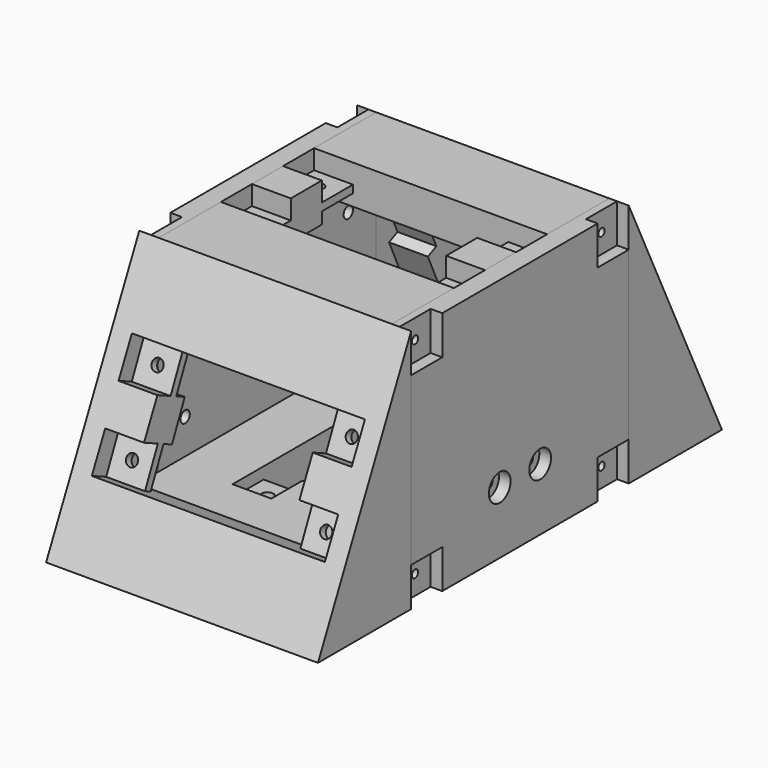
from build123d import *

# Parameters (mm, degrees)
CYLINDER002_R           = 1
CYLINDER002_DEPTH       = 5
CYLINDER002_PITCH_ANGLE = 90
ARRAY003_X_COUNT        = 2
ARRAY003_X_PITCH        = 53
ARRAY003_Y_COUNT        = 2
ARRAY003_Y_PITCH        = 60
CYLINDER003_R           = 1
CYLINDER003_DEPTH       = 5
CYLINDER003_PITCH_ANGLE = 90
ARRAY004_X_COUNT        = 2
ARRAY004_X_PITCH        = 53
ARRAY004_Y_COUNT        = 2
ARRAY004_Y_PITCH        = 60
CYLINDER001_R           = 1.5
CYLINDER001_DEPTH       = 4
ARRAY002_X_COUNT        = 2
ARRAY002_X_PITCH        = 20
ARRAY002_Y_COUNT        = 2
ARRAY002_Y_PITCH        = 50
CYLINDER_R              = 1.5
CYLINDER_DEPTH          = 4
ARRAY001_X_COUNT        = 2
ARRAY001_X_PITCH        = 50
ARRAY001_Y_COUNT        = 2
ARRAY001_Y_PITCH        = 20
BOX001_W                = 5
BOX001_H                = 70
BOX001_DEPTH            = 63
ARRAY_X_COUNT           = 2
ARRAY_X_PITCH           = 65
BOX_W                   = 60
BOX_H                   = 70
BOX_DEPTH               = 43
PAD001_DEPTH            = 10
PAD002_DEPTH            = 10
PAD003_DEPTH            = 60
PAD004_DEPTH            = 15
PAD005_DEPTH            = 15
SKETCH006_W             = 10
SKETCH006_H             = 2
POCKET_DEPTH            = 10
SKETCH007_W             = 10
SKETCH007_H             = 2
POCKET001_DEPTH         = 10
SKETCH008_W             = 10
SKETCH008_H             = 2
POCKET002_DEPTH         = 10
SKETCH009_W             = 10
SKETCH009_H             = 2
POCKET003_DEPTH         = 10
PAD_DEPTH               = 70
SKETCH010_R             = 1.5
POCKET004_DEPTH         = 3
SKETCH011_R             = 1.5
POCKET005_DEPTH         = 3
CYLINDER007_R           = 1.5
CYLINDER007_DEPTH       = 3
CYLINDER007_PITCH_ANGLE = 90
ARRAY010_X_COUNT        = 2
ARRAY010_X_PITCH        = 25
ARRAY010_Y_COUNT        = 2
ARRAY010_Y_PITCH        = 52.5
CYLINDER006_R           = 3.5
CYLINDER006_DEPTH       = 4
CYLINDER006_PITCH_ANGLE = 90
ARRAY009_X_COUNT        = 2
ARRAY009_X_PITCH        = 25
ARRAY009_Y_COUNT        = 2
ARRAY009_Y_PITCH        = 52.5
CYLINDER004_R           = 1
CYLINDER004_DEPTH       = 10
CYLINDER004_PITCH_ANGLE = 90
ARRAY006_X_COUNT        = 2
ARRAY006_X_PITCH        = 53
ARRAY006_Y_COUNT        = 2
ARRAY006_Y_PITCH        = 60
BOX003_W                = 3
BOX003_H                = 10
BOX003_DEPTH            = 10
ARRAY005_X_COUNT        = 2
ARRAY005_X_PITCH        = 53
ARRAY005_Y_COUNT        = 2
ARRAY005_Y_PITCH        = 60
BOX002_W                = 5
BOX002_H                = 70
BOX002_DEPTH            = 63
CYLINDER008_R           = 1.5
CYLINDER008_DEPTH       = 3
CYLINDER008_PITCH_ANGLE = 90
ARRAY013_Y_COUNT        = 2
ARRAY013_Y_PITCH        = 13
BOX011_W                = 3
BOX011_H                = 23
BOX011_DEPTH            = 10
BOX010_W                = 5
BOX010_H                = 23
BOX010_DEPTH            = 12
BOX008_W                = 5
BOX008_H                = 23
BOX008_DEPTH            = 2
BOX007_W                = 5
BOX007_H                = 5
BOX007_DEPTH            = 5
ARRAY012_Y_COUNT        = 2
ARRAY012_Y_PITCH        = 25.5
CHAMFER_SIZE            = 2.5
CHAMFER_PITCH_ANGLE     = -90
CYLINDER009_R           = 1.5
CYLINDER009_DEPTH       = 2
CYLINDER009_PITCH_ANGLE = 90
ARRAY014_Y_COUNT        = 2
ARRAY014_Y_PITCH        = 13
CYLINDER010_R           = 3.5
CYLINDER010_DEPTH       = 3
CYLINDER010_PITCH_ANGLE = 90
ARRAY015_Y_COUNT        = 2
ARRAY015_Y_PITCH        = 13
BOX009_W                = 5
BOX009_H                = 23
BOX009_DEPTH            = 5
CYLINDER005_R           = 1
CYLINDER005_DEPTH       = 10
CYLINDER005_PITCH_ANGLE = 90
ARRAY008_X_COUNT        = 2
ARRAY008_X_PITCH        = 53
ARRAY008_Y_COUNT        = 2
ARRAY008_Y_PITCH        = 60
BOX005_W                = 3
BOX005_H                = 10
BOX005_DEPTH            = 10
ARRAY007_X_COUNT        = 2
ARRAY007_X_PITCH        = 53
ARRAY007_Y_COUNT        = 2
ARRAY007_Y_PITCH        = 60
BOX004_W                = 5
BOX004_H                = 70
BOX004_DEPTH            = 63
CUT009_PLACEMENT_ANGLE  = 180


with BuildPart() as obj1:
    # Cylinder002 → Cylinder002 (new body)
    with BuildSketch(Plane.XY):
        Circle(CYLINDER002_R)
    extrude(amount=CYLINDER002_DEPTH)


with BuildPart() as obj1_1:
    # Cylinder002 pitch: moved
    add(obj1.part.rotate(Axis((0, 0, 0), (0, 1, 0)), CYLINDER002_PITCH_ANGLE))


with BuildPart() as obj1_2:
    # Cylinder002 placement: moved
    add(obj1_1.part)

    # Array003 X: obj1_2


with BuildPart() as obj1_3:
    add(obj1_2.part)
    with Locations(*[(0, 0, i * ARRAY003_X_PITCH) for i in range(1, ARRAY003_X_COUNT)]):
        add(obj1_2.part)

    # Array003 Y: obj1_2


with BuildPart() as obj1_4:
    add(obj1_3.part)
    with Locations(*[(0, i * ARRAY003_Y_PITCH, 0) for i in range(1, ARRAY003_Y_COUNT)]):
        add(obj1_3.part)


with BuildPart() as obj1_5:
    # Array003 placement: moved
    add(obj1_4.part.moved(Location((2, 5, 5))))


with BuildPart() as obj2:
    # Cylinder003 → Cylinder003 (new body)
    with BuildSketch(Plane.XY):
        Circle(CYLINDER003_R)
    extrude(amount=CYLINDER003_DEPTH)


with BuildPart() as obj2_1:
    # Cylinder003 pitch: moved
    add(obj2.part.rotate(Axis((0, 0, 0), (0, 1, 0)), CYLINDER003_PITCH_ANGLE))


with BuildPart() as obj2_2:
    # Cylinder003 placement: moved
    add(obj2_1.part)

    # Array004 X: obj2_2


with BuildPart() as obj2_3:
    add(obj2_2.part)
    with Locations(*[(0, 0, i * ARRAY004_X_PITCH) for i in range(1, ARRAY004_X_COUNT)]):
        add(obj2_2.part)

    # Array004 Y: obj2_2


with BuildPart() as obj2_4:
    add(obj2_3.part)
    with Locations(*[(0, i * ARRAY004_Y_PITCH, 0) for i in range(1, ARRAY004_Y_COUNT)]):
        add(obj2_3.part)


with BuildPart() as obj2_5:
    # Array004 placement: moved
    add(obj2_4.part.moved(Location((63, 5, 5))))


with BuildPart() as agujeros_inf:
    # Cylinder001 → Cylinder001 (new body)
    with BuildSketch(Plane.XY):
        Circle(CYLINDER001_R)
    extrude(amount=CYLINDER001_DEPTH)

    # Array002 X: Agujeros_Inf ×2


with BuildPart() as agujeros_inf_1:
    add(agujeros_inf.part)
    with Locations(*[(i * ARRAY002_X_PITCH, 0, 0) for i in range(1, ARRAY002_X_COUNT)]):
        add(agujeros_inf.part)

    # Array002 Y: Agujeros_Inf ×2


with BuildPart() as agujeros_inf_2:
    add(agujeros_inf_1.part)
    with Locations(*[(0, i * ARRAY002_Y_PITCH, 0) for i in range(1, ARRAY002_Y_COUNT)]):
        add(agujeros_inf_1.part)


with BuildPart() as agujeros_inf_3:
    # Array002 placement: moved
    add(agujeros_inf_2.part.moved(Location((25, 10, 4))))


with BuildPart() as agujeros_sup:
    # Cylinder → Cylinder (new body)
    with BuildSketch(Plane.XY):
        Circle(CYLINDER_R)
    extrude(amount=CYLINDER_DEPTH)

    # Array001 X: Agujeros_Sup ×2


with BuildPart() as agujeros_sup_1:
    add(agujeros_sup.part)
    with Locations(*[(i * ARRAY001_X_PITCH, 0, 0) for i in range(1, ARRAY001_X_COUNT)]):
        add(agujeros_sup.part)

    # Array001 Y: Agujeros_Sup ×2


with BuildPart() as agujeros_sup_2:
    add(agujeros_sup_1.part)
    with Locations(*[(0, i * ARRAY001_Y_PITCH, 0) for i in range(1, ARRAY001_Y_COUNT)]):
        add(agujeros_sup_1.part)


with BuildPart() as agujeros_sup_3:
    # Array001 placement: moved
    add(agujeros_sup_2.part.moved(Location((10, 25, 55))))


with BuildPart() as huecostapas:
    # Box001 → Box001 (new body)
    with BuildSketch(Plane.XY):
        with Locations((2.5, 35)):
            Rectangle(BOX001_W, BOX001_H)
    extrude(amount=BOX001_DEPTH)

    # Array X: HuecosTapas ×2


with BuildPart() as huecostapas_1:
    add(huecostapas.part)
    with Locations(*[(i * ARRAY_X_PITCH, 0, 0) for i in range(1, ARRAY_X_COUNT)]):
        add(huecostapas.part)


with BuildPart() as interiorcarcasa_hueco:
    # Box → Box (new body)
    with BuildSketch(Plane.XY):
        with Locations((30, 35)):
            Rectangle(BOX_W, BOX_H)
    extrude(amount=BOX_DEPTH)

    # Sketch001 → Pad001 (new body)
    with BuildSketch(Plane.XY.offset(43)):
        Polygon((10, 50), (50, 50), (60, 50), (60, 40), (50, 40), (50, 30), (60, 30), (60, 20), (50, 20), (10, 20), (0, 20), (0, 30), (10, 30), (10, 40), (0, 40), (0, 50), align=None)
    extrude(amount=PAD001_DEPTH)

    # Sketch002 → Pad002 (new body)
    with BuildSketch(Plane(origin=(0, 0, 0), x_dir=(1, 0, 0), z_dir=(0, 0, -1))):
        Polygon((15, -5), (25, -5), (25, -15), (35, -15), (35, -5), (45, -5), (45, -65), (35, -65), (35, -55), (25, -55), (25, -65), (15, -65), align=None)
    extrude(amount=PAD002_DEPTH)

    # Sketch003 → Pad003 (new body)
    with BuildSketch(Plane.YZ.offset(60)):
        Polygon((-14, 0), (0, 0), (0, 30.9838667697), align=None)
        Polygon((70, 30.9838667697), (70, 0), (84, 0), align=None)
    extrude(amount=-PAD003_DEPTH)

    # Sketch004 → Pad004 (new body)
    with BuildSketch(Plane(origin=(0, -11.6262975779, 5.2533199713), x_dir=(1, 0, 0), z_dir=(0, -0.9112901991, 0.4117647059))):
        Polygon((0, 28.2352941176), (60, 28.2352941176), (60, 18.2352941176), (50, 18.2352941176), (50, 8.2352941176), (60, 8.2352941176), (60, -1.7647058824), (0, -1.7647058824), (0, 8.2352941176), (10, 8.2352941176), (10, 18.2352941176), (0, 18.2352941176), align=None)
    extrude(amount=PAD004_DEPTH)

    # Sketch005 → Pad005 (new body)
    with BuildSketch(Plane(origin=(0, 69.7577854671, 31.519919828), x_dir=(-1, 0, 0), z_dir=(0, 0.9112901991, 0.4117647059))):
        Polygon((-60, -0.5882352941), (0, -0.5882352941), (0, -10.5882352941), (-10, -10.5882352941), (-10, -20.5882352941), (0, -20.5882352941), (0, -30.5882352941), (-60, -30.5882352941), (-60, -20.5882352941), (-50, -20.5882352941), (-50, -10.5882352941), (-60, -10.5882352941), align=None)
    extrude(amount=PAD005_DEPTH)

    # Sketch006 → Pocket (cut)
    with BuildSketch(Plane.YZ.offset(60)):
        with Locations((25, 47)):
            Rectangle(SKETCH006_W, SKETCH006_H)
        with Locations((45, 47)):
            Rectangle(SKETCH006_W, SKETCH006_H)
        Polygon((-16.909392172, 5.7039843258), (-12.7917451132, 14.8168863169), (-10.969164715, 13.9933569052), (-15.0868117738, 4.8804549141), align=None)
        Polygon((-8.6740980544, 23.929788308), (-4.5564509955, 33.0426902991), (-2.7338705973, 32.2191608873), (-6.8515176561, 23.1062588962), align=None)
        Polygon((74.5564509955, 33.0426902991), (78.6740980544, 23.929788308), (76.8515176561, 23.1062588962), (72.7338705973, 32.2191608873), align=None)
        Polygon((80.969164715, 13.9933569052), (85.0868117738, 4.8804549141), (86.909392172, 5.7039843258), (82.7917451132, 14.8168863169), align=None)
    extrude(amount=-POCKET_DEPTH, mode=Mode.SUBTRACT)

    # Sketch007 → Pocket001 (cut)
    with BuildSketch(Plane(origin=(0, 0, 0), x_dir=(0, -1, 0), z_dir=(-1, 0, 0))):
        Polygon((-80.969164715, 13.9933569052), (-85.0868117738, 4.8804549141), (-86.909392172, 5.7039843258), (-82.7917451132, 14.8168863169), align=None)
        Polygon((-74.5564509955, 33.0426902991), (-78.6740980544, 23.929788308), (-76.8515176561, 23.1062588962), (-72.7338705973, 32.2191608873), align=None)
        Polygon((2.7338705973, 32.2191608873), (6.8515176561, 23.1062588962), (8.6740980544, 23.929788308), (4.5564509955, 33.0426902991), align=None)
        Polygon((12.7917451132, 14.8168863169), (10.969164715, 13.9933569052), (15.0868117738, 4.8804549141), (16.909392172, 5.7039843258), align=None)
        with Locations((-45, 47)):
            Rectangle(SKETCH007_W, SKETCH007_H)
        with Locations((-25, 47)):
            Rectangle(SKETCH007_W, SKETCH007_H)
    extrude(amount=-POCKET001_DEPTH, mode=Mode.SUBTRACT)

    # Sketch008 → Pocket002 (cut)
    with BuildSketch(Plane(origin=(0, 65, 0), x_dir=(-1, 0, 0), z_dir=(0, 1, 0))):
        with Locations((-40, -4)):
            Rectangle(SKETCH008_W, SKETCH008_H)
        with Locations((-20, -4)):
            Rectangle(SKETCH008_W, SKETCH008_H)
    extrude(amount=-POCKET002_DEPTH, mode=Mode.SUBTRACT)

    # Sketch009 → Pocket003 (cut)
    with BuildSketch(Plane.XZ.offset(-5)):
        with Locations((20, -4)):
            Rectangle(SKETCH009_W, SKETCH009_H)
        with Locations((40, -4)):
            Rectangle(SKETCH009_W, SKETCH009_H)
    extrude(amount=-POCKET003_DEPTH, mode=Mode.SUBTRACT)


with BuildPart() as obj3:
    # Sketch → Pad (new body)
    with BuildSketch(Plane(origin=(-5, -30, -10), x_dir=(0, 1, 0), z_dir=(1, 0, 0))):
        Polygon((0, 0), (130, 0), (100, 63), (30, 63), align=None)
    extrude(amount=PAD_DEPTH)

    # Cut: cut InteriorCarcasa_hueco
    add(interiorcarcasa_hueco.part, mode=Mode.SUBTRACT)


with BuildPart() as obj3_1:
    # Cut placement: moved
    add(obj3.part.moved(Location((5, 0, 10))))

    # Cut001: cut HuecosTapas
    add(huecostapas_1.part, mode=Mode.SUBTRACT)

    # Sketch010 → Pocket004 (cut)
    with BuildSketch(Plane(origin=(0, -19.9351199815, 9.0076452308), x_dir=(1, 0, 0), z_dir=(0, -0.9112901991, 0.4117647059))):
        with Locations((10, 32.3481961087)):
            Circle(SKETCH010_R)
        with Locations((60, 32.3481961087)):
            Circle(SKETCH010_R)
        with Locations((10, 12.3481961087)):
            Circle(SKETCH010_R)
        with Locations((60, 12.3481961087)):
            Circle(SKETCH010_R)
    extrude(amount=-POCKET004_DEPTH, mode=Mode.SUBTRACT)

    # Sketch011 → Pocket005 (cut)
    with BuildSketch(Plane(origin=(0, 78.0666078708, 35.2742450875), x_dir=(-1, 0, 0), z_dir=(0, 0.9112901991, 0.4117647059))):
        with Locations((-60, 3.524666697)):
            Circle(SKETCH011_R)
        with Locations((-10, 3.524666697)):
            Circle(SKETCH011_R)
        with Locations((-60, -16.475333303)):
            Circle(SKETCH011_R)
        with Locations((-10, -16.475333303)):
            Circle(SKETCH011_R)
    extrude(amount=-POCKET005_DEPTH, mode=Mode.SUBTRACT)

    # Cut002: cut Agujeros_Sup
    add(agujeros_sup_3.part, mode=Mode.SUBTRACT)

    # Cut003: cut Agujeros_Inf
    add(agujeros_inf_3.part, mode=Mode.SUBTRACT)

    # Cut004: cut obj2
    add(obj2_5.part, mode=Mode.SUBTRACT)

    # Cut005: cut obj1
    add(obj1_5.part, mode=Mode.SUBTRACT)


with BuildPart() as obj1_int:
    # Cylinder007 → Cylinder007 (new body)
    with BuildSketch(Plane.XY):
        Circle(CYLINDER007_R)
    extrude(amount=CYLINDER007_DEPTH)


with BuildPart() as obj1_int_1:
    # Cylinder007 pitch: moved
    add(obj1_int.part.rotate(Axis((0, 0, 0), (0, 1, 0)), CYLINDER007_PITCH_ANGLE))


with BuildPart() as obj1_int_2:
    # Cylinder007 placement: moved
    add(obj1_int_1.part)

    # Array010 X: obj1_int_2


with BuildPart() as obj1_int_3:
    add(obj1_int_2.part)
    with Locations(*[(0, 0, i * ARRAY010_X_PITCH) for i in range(1, ARRAY010_X_COUNT)]):
        add(obj1_int_2.part)

    # Array010 Y: obj1_int_2


with BuildPart() as obj1_int_4:
    add(obj1_int_3.part)
    with Locations(*[(0, i * ARRAY010_Y_PITCH, 0) for i in range(1, ARRAY010_Y_COUNT)]):
        add(obj1_int_3.part)


with BuildPart() as obj1_int_5:
    # Array010 placement: moved
    add(obj1_int_4.part.moved(Location((3, 8.5, 19))))


with BuildPart() as obj1_ext:
    # Cylinder006 → Cylinder006 (new body)
    with BuildSketch(Plane.XY):
        Circle(CYLINDER006_R)
    extrude(amount=CYLINDER006_DEPTH)


with BuildPart() as obj1_ext_1:
    # Cylinder006 pitch: moved
    add(obj1_ext.part.rotate(Axis((0, 0, 0), (0, 1, 0)), CYLINDER006_PITCH_ANGLE))


with BuildPart() as obj1_ext_2:
    # Cylinder006 placement: moved
    add(obj1_ext_1.part)

    # Array009 X: obj1_ext_2


with BuildPart() as obj1_ext_3:
    add(obj1_ext_2.part)
    with Locations(*[(0, 0, i * ARRAY009_X_PITCH) for i in range(1, ARRAY009_X_COUNT)]):
        add(obj1_ext_2.part)

    # Array009 Y: obj1_ext_2


with BuildPart() as obj1_ext_4:
    add(obj1_ext_3.part)
    with Locations(*[(0, i * ARRAY009_Y_PITCH, 0) for i in range(1, ARRAY009_Y_COUNT)]):
        add(obj1_ext_3.part)


with BuildPart() as obj1_ext_5:
    # Array009 placement: moved
    add(obj1_ext_4.part.moved(Location((-1, 8.5, 19))))


with BuildPart() as obj4:
    # Cylinder004 → Cylinder004 (new body)
    with BuildSketch(Plane.XY):
        Circle(CYLINDER004_R)
    extrude(amount=CYLINDER004_DEPTH)


with BuildPart() as obj4_1:
    # Cylinder004 pitch: moved
    add(obj4.part.rotate(Axis((0, 0, 0), (0, 1, 0)), CYLINDER004_PITCH_ANGLE))


with BuildPart() as obj4_2:
    # Cylinder004 placement: moved
    add(obj4_1.part)

    # Array006 X: obj4_2


with BuildPart() as obj4_3:
    add(obj4_2.part)
    with Locations(*[(0, 0, i * ARRAY006_X_PITCH) for i in range(1, ARRAY006_X_COUNT)]):
        add(obj4_2.part)

    # Array006 Y: obj4_2


with BuildPart() as obj4_4:
    add(obj4_3.part)
    with Locations(*[(0, i * ARRAY006_Y_PITCH, 0) for i in range(1, ARRAY006_Y_COUNT)]):
        add(obj4_3.part)


with BuildPart() as obj4_5:
    # Array006 placement: moved
    add(obj4_4.part.moved(Location((-1, 5, 5))))


with BuildPart() as obj5:
    # Box003 → Box003 (new body)
    with BuildSketch(Plane.XY):
        with Locations((1.5, 5)):
            Rectangle(BOX003_W, BOX003_H)
    extrude(amount=BOX003_DEPTH)

    # Array005 X: obj5_2


with BuildPart() as obj5_1:
    add(obj5.part)
    with Locations(*[(0, 0, i * ARRAY005_X_PITCH) for i in range(1, ARRAY005_X_COUNT)]):
        add(obj5.part)

    # Array005 Y: obj5_2


with BuildPart() as obj5_2:
    add(obj5_1.part)
    with Locations(*[(0, i * ARRAY005_Y_PITCH, 0) for i in range(1, ARRAY005_Y_COUNT)]):
        add(obj5_1.part)


with BuildPart() as obj6:
    # Box002 → Box002 (new body)
    with BuildSketch(Plane.XY):
        with Locations((2.5, 35)):
            Rectangle(BOX002_W, BOX002_H)
    extrude(amount=BOX002_DEPTH)

    # Cut006: cut obj5
    add(obj5_2.part, mode=Mode.SUBTRACT)

    # Cut007: cut obj4
    add(obj4_5.part, mode=Mode.SUBTRACT)

    # Cut010: cut obj1_ext
    add(obj1_ext_5.part, mode=Mode.SUBTRACT)

    # Cut011: cut obj1_int
    add(obj1_int_5.part, mode=Mode.SUBTRACT)


with BuildPart() as obj7:
    # Cylinder008 → Cylinder008 (new body)
    with BuildSketch(Plane.XY):
        Circle(CYLINDER008_R)
    extrude(amount=CYLINDER008_DEPTH)


with BuildPart() as obj7_1:
    # Cylinder008 pitch: moved
    add(obj7.part.rotate(Axis((0, 0, 0), (0, 1, 0)), CYLINDER008_PITCH_ANGLE))


with BuildPart() as obj7_2:
    # Cylinder008 placement: moved
    add(obj7_1.part.moved(Location((62, 28.5, 16))))

    # Array013 Y: obj7_2


with BuildPart() as obj7_3:
    add(obj7_2.part)
    with Locations(*[(0, i * ARRAY013_Y_PITCH, 0) for i in range(1, ARRAY013_Y_COUNT)]):
        add(obj7_2.part)


with BuildPart() as obj8_hueco:
    # Box011 → Box011 (new body)
    with BuildSketch(Plane.XY):
        with Locations((1.5, 11.5)):
            Rectangle(BOX011_W, BOX011_H)
    extrude(amount=BOX011_DEPTH)


with BuildPart() as obj8:
    # Box010 → Box010 (new body)
    with BuildSketch(Plane.XY):
        with Locations((2.5, 11.5)):
            Rectangle(BOX010_W, BOX010_H)
    extrude(amount=BOX010_DEPTH)

    # Cut013: cut obj8_hueco
    add(obj8_hueco.part, mode=Mode.SUBTRACT)


with BuildPart() as obj8_1:
    # Cut013 placement: moved
    add(obj8.part.moved(Location((60, 23.5, 11))))

    # Cut014: cut obj7
    add(obj7_3.part, mode=Mode.SUBTRACT)


with BuildPart() as obj9:
    # Box008 → Box008 (new body)
    with BuildSketch(Plane(origin=(0, 3.75, 0), x_dir=(1, 0, 0), z_dir=(0, 0, 1))):
        with Locations((2.5, 11.5)):
            Rectangle(BOX008_W, BOX008_H)
    extrude(amount=BOX008_DEPTH)


with BuildPart() as clavijas:
    # Box007 → Box007 (new body)
    with BuildSketch(Plane.XY):
        with Locations((2.5, 2.5)):
            Rectangle(BOX007_W, BOX007_H)
    extrude(amount=BOX007_DEPTH)

    # Array012 Y: Clavijas ×2


with BuildPart() as clavijas_1:
    add(clavijas.part)
    with Locations(*[(0, i * ARRAY012_Y_PITCH, 0) for i in range(1, ARRAY012_Y_COUNT)]):
        add(clavijas.part)

    # Cut012: cut obj9
    add(obj9.part, mode=Mode.SUBTRACT)

    # Chamfer
    chamfer_edges = [clavijas_1.edges().sort_by_distance(p)[0] for p in [
        (2.5, 5, 5),
        (2.5, 25.5, 5),
    ]]
    chamfer(chamfer_edges, length=CHAMFER_SIZE)


with BuildPart() as clavijas_2:
    # Chamfer pitch: moved
    add(clavijas_1.part.rotate(Axis((0, 0, 0), (0, 1, 0)), CHAMFER_PITCH_ANGLE))


with BuildPart() as clavijas_3:
    # Chamfer placement: moved
    add(clavijas_2.part.moved(Location((65, 19.75, 29))))


with BuildPart() as obj10:
    # Cylinder009 → Cylinder009 (new body)
    with BuildSketch(Plane.XY):
        Circle(CYLINDER009_R)
    extrude(amount=CYLINDER009_DEPTH)


with BuildPart() as obj10_1:
    # Cylinder009 pitch: moved
    add(obj10.part.rotate(Axis((0, 0, 0), (0, 1, 0)), CYLINDER009_PITCH_ANGLE))


with BuildPart() as obj10_2:
    # Cylinder009 placement: moved
    add(obj10_1.part.moved(Location((65, 28.5, 16))))

    # Array014 Y: obj10_2


with BuildPart() as obj10_3:
    add(obj10_2.part)
    with Locations(*[(0, i * ARRAY014_Y_PITCH, 0) for i in range(1, ARRAY014_Y_COUNT)]):
        add(obj10_2.part)


with BuildPart() as obj11:
    # Cylinder010 → Cylinder010 (new body)
    with BuildSketch(Plane.XY):
        Circle(CYLINDER010_R)
    extrude(amount=CYLINDER010_DEPTH)


with BuildPart() as obj11_1:
    # Cylinder010 pitch: moved
    add(obj11.part.rotate(Axis((0, 0, 0), (0, 1, 0)), CYLINDER010_PITCH_ANGLE))


with BuildPart() as obj11_2:
    # Cylinder010 placement: moved
    add(obj11_1.part.moved(Location((67, 28.5, 16))))

    # Array015 Y: obj11_2


with BuildPart() as obj11_3:
    add(obj11_2.part)
    with Locations(*[(0, i * ARRAY015_Y_PITCH, 0) for i in range(1, ARRAY015_Y_COUNT)]):
        add(obj11_2.part)


with BuildPart() as obj12:
    # Box009 → Box009 (new body)
    with BuildSketch(Plane(origin=(60, 23.5, 40), x_dir=(1, 0, 0), z_dir=(0, 0, 1))):
        with Locations((2.5, 11.5)):
            Rectangle(BOX009_W, BOX009_H)
    extrude(amount=BOX009_DEPTH)


with BuildPart() as obj13:
    # Cylinder005 → Cylinder005 (new body)
    with BuildSketch(Plane.XY):
        Circle(CYLINDER005_R)
    extrude(amount=CYLINDER005_DEPTH)


with BuildPart() as obj13_1:
    # Cylinder005 pitch: moved
    add(obj13.part.rotate(Axis((0, 0, 0), (0, 1, 0)), CYLINDER005_PITCH_ANGLE))


with BuildPart() as obj13_2:
    # Cylinder005 placement: moved
    add(obj13_1.part)

    # Array008 X: obj13_2


with BuildPart() as obj13_3:
    add(obj13_2.part)
    with Locations(*[(0, 0, i * ARRAY008_X_PITCH) for i in range(1, ARRAY008_X_COUNT)]):
        add(obj13_2.part)

    # Array008 Y: obj13_2


with BuildPart() as obj13_4:
    add(obj13_3.part)
    with Locations(*[(0, i * ARRAY008_Y_PITCH, 0) for i in range(1, ARRAY008_Y_COUNT)]):
        add(obj13_3.part)


with BuildPart() as obj13_5:
    # Array008 placement: moved
    add(obj13_4.part.moved(Location((-1, 5, 5))))


with BuildPart() as obj14:
    # Box005 → Box005 (new body)
    with BuildSketch(Plane.XY):
        with Locations((1.5, 5)):
            Rectangle(BOX005_W, BOX005_H)
    extrude(amount=BOX005_DEPTH)

    # Array007 X: obj14_2


with BuildPart() as obj14_1:
    add(obj14.part)
    with Locations(*[(0, 0, i * ARRAY007_X_PITCH) for i in range(1, ARRAY007_X_COUNT)]):
        add(obj14.part)

    # Array007 Y: obj14_2


with BuildPart() as obj14_2:
    add(obj14_1.part)
    with Locations(*[(0, i * ARRAY007_Y_PITCH, 0) for i in range(1, ARRAY007_Y_COUNT)]):
        add(obj14_1.part)


with BuildPart() as obj15:
    # Box004 → Box004 (new body)
    with BuildSketch(Plane.XY):
        with Locations((2.5, 35)):
            Rectangle(BOX004_W, BOX004_H)
    extrude(amount=BOX004_DEPTH)

    # Cut008: cut obj14
    add(obj14_2.part, mode=Mode.SUBTRACT)

    # Cut009: cut obj13
    add(obj13_5.part, mode=Mode.SUBTRACT)


with BuildPart() as obj15_1:
    # Cut009 placement: moved
    add(obj15.part.moved(Location((70, 70, 0))).rotate(Axis((70, 70, 0), (0, 0, 1)), CUT009_PLACEMENT_ANGLE))

    # Fusion: union obj12
    add(obj12.part)

    # Cut015: cut obj11
    add(obj11_3.part, mode=Mode.SUBTRACT)

    # Cut016: cut obj10
    add(obj10_3.part, mode=Mode.SUBTRACT)

    # Fusion001: union Clavijas
    add(clavijas_3.part)


solid = Compound([obj3_1.part, obj6.part, obj8_1.part, obj15_1.part])
